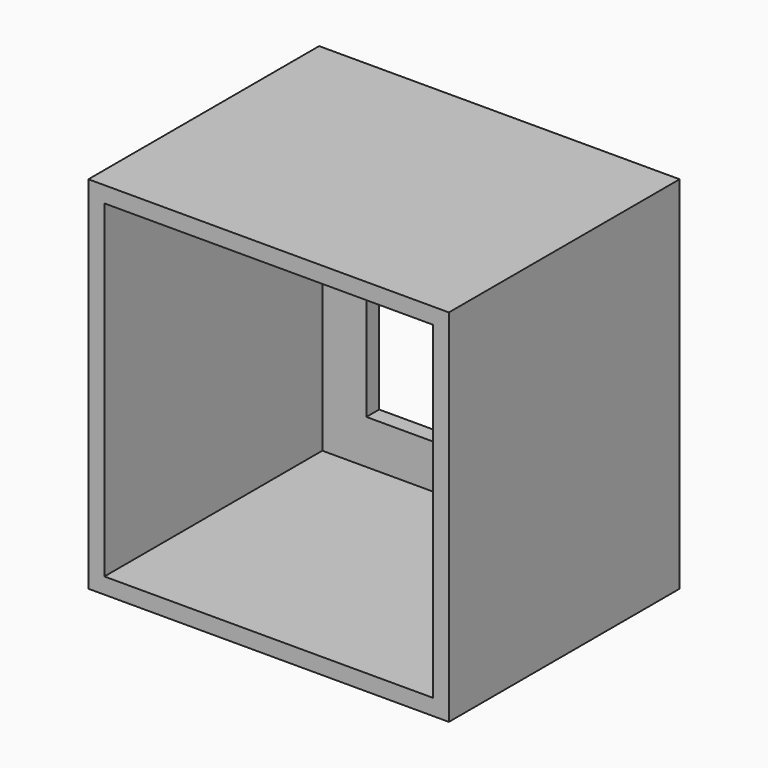
from build123d import *

# Parameters (mm, degrees)
F0_W     = 45
F0_H     = 45
F1_DEPTH = 36
F2_T     = -2
F3_W     = 30
F3_H     = 30
F4_DEPTH = 25


with BuildPart() as f1:
    # F0 (on Front) → F1 (new body)
    with BuildSketch(Plane.XZ):
        Rectangle(F0_W, F0_H)
    extrude(amount=F1_DEPTH)

    # F2
    f2_openings = [f1.faces().sort_by_distance(p)[0] for p in [
        (0, -36, 0),
    ]]
    offset(amount=F2_T, openings=f2_openings)

    # F3 (on face) → F4 (cut)
    with BuildSketch(Plane(origin=(0, 0, 0), x_dir=(-1, 0, 0), z_dir=(0, 1, 0))):
        Rectangle(F3_W, F3_H)
    extrude(amount=-F4_DEPTH, mode=Mode.SUBTRACT)


solid = f1.part
